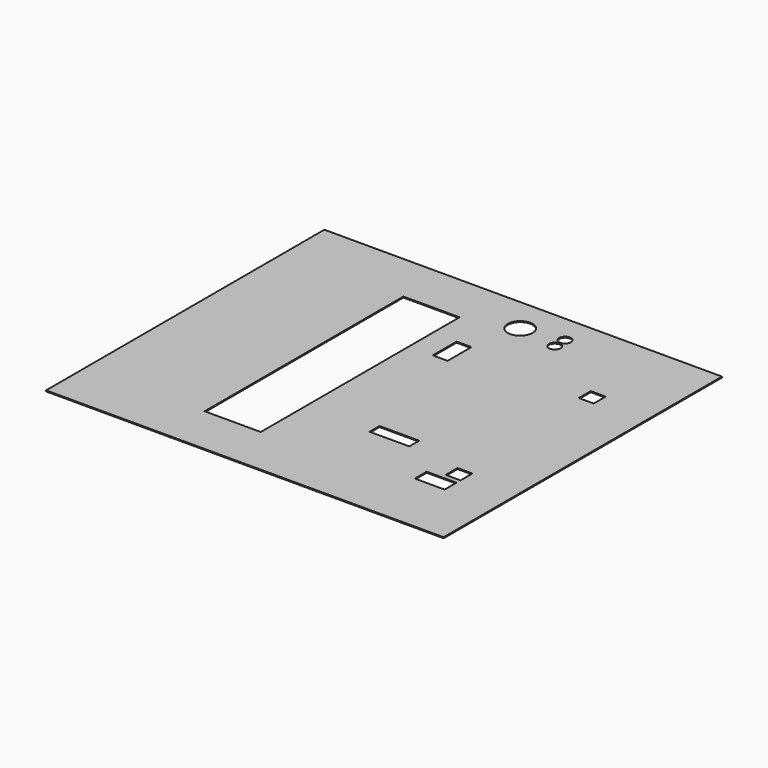
from build123d import *

# Parameters (mm, degrees)
F0_W     = 800
F0_H     = 700
F0_W_2   = 60
F0_H_2   = 30
F0_W_3   = 80
F0_H_3   = 25
F0_W_4   = 30
F0_W_5   = 113
F0_H_4   = 500
F0_H_5   = 60
F0_R     = 25
F0_R_2   = 11.8
F1_DEPTH = 2


with BuildPart() as f1:
    # F0 (on Top) → F1 (new body)
    with BuildSketch(Plane.XY):
        with Locations((400, 350)):
            Rectangle(F0_W, F0_H)
        with Locations((670, 142.5)):
            Rectangle(F0_W_2, F0_H_2, mode=Mode.SUBTRACT)
        with Locations((525, 220)):
            Rectangle(F0_W_3, F0_H_3, mode=Mode.SUBTRACT)
        with Locations((685, 182.5)):
            Rectangle(F0_W_4, F0_H_2, mode=Mode.SUBTRACT)
        with Locations((295.5, 350)):
            Rectangle(F0_W_5, F0_H_4, mode=Mode.SUBTRACT)
        with Locations((415, 502.5)):
            Rectangle(F0_W_4, F0_H_5, mode=Mode.SUBTRACT)
        with Locations((685, 517.5)):
            Rectangle(F0_W_4, F0_H_2, mode=Mode.SUBTRACT)
        with Locations((450, 630)):
            Circle(F0_R, mode=Mode.SUBTRACT)
        with Locations((530, 617)):
            Circle(F0_R_2, mode=Mode.SUBTRACT)
        with Locations((530, 643)):
            Circle(F0_R_2, mode=Mode.SUBTRACT)
    extrude(amount=F1_DEPTH)


solid = f1.part
